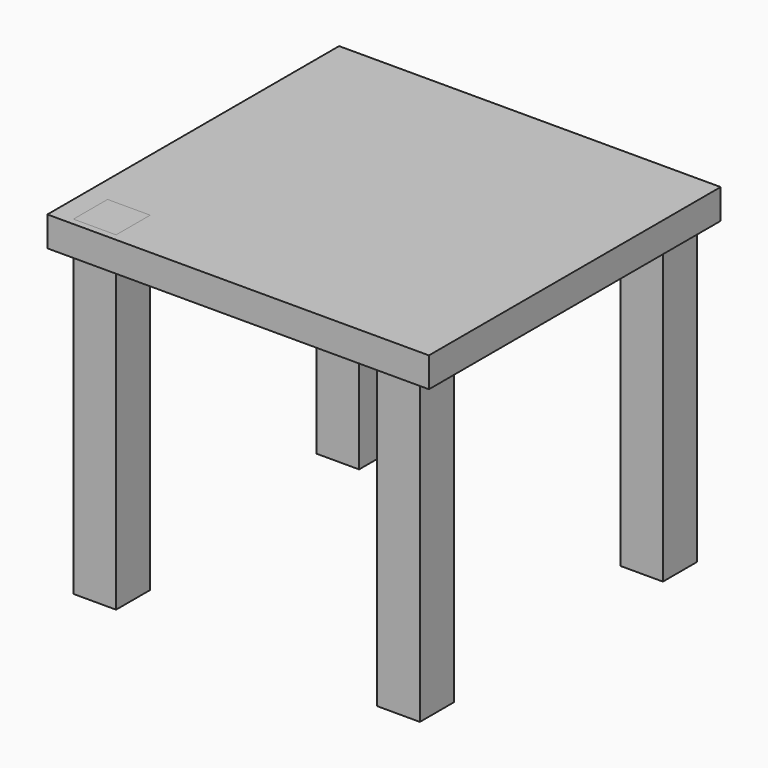
from build123d import *

# Parameters (mm, degrees)
F0_W     = 12.7
F0_H     = 12.7
F1_DEPTH = 98.298
F2_W     = 113.657266
F2_H     = 108.616017
F2_W_2   = 12.7
F2_H_2   = 12.7
F3_DEPTH = 8.89


with BuildPart() as f1:
    # F0 (on Top) → F1 (new body)
    with BuildSketch(Plane.XY):
        with Locations((-210.396168, -33.73424)):
            Rectangle(F0_W, F0_H)
        with Locations((-300.891521, -33.73424)):
            Rectangle(F0_W, F0_H)
        with Locations((-300.891521, 56.761109)):
            Rectangle(F0_W, F0_H)
        with Locations((-210.396168, 56.761109)):
            Rectangle(F0_W, F0_H)
    extrude(amount=F1_DEPTH)


with BuildPart() as f3:
    # F2 (on face) → F3 (new body)
    with BuildSketch(Plane.XY.offset(98.298)):
        with Locations((-256.616518, 12.274678)):
            Rectangle(F2_W, F2_H)
        with Locations((-300.891521, -33.73424)):
            Rectangle(F2_W_2, F2_H_2, mode=Mode.SUBTRACT)
    extrude(amount=-F3_DEPTH)


solid = Compound([f1.part, f3.part])
